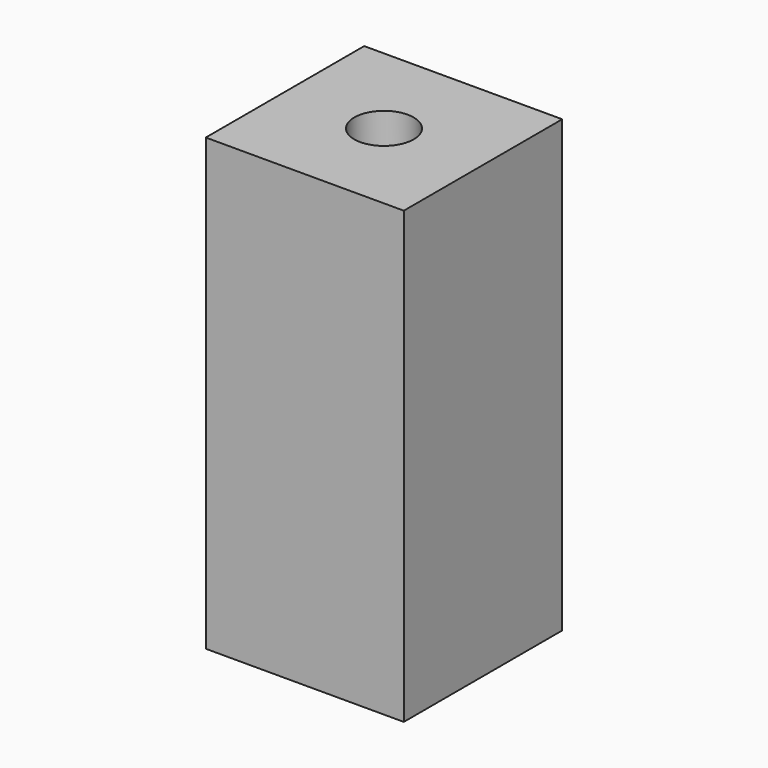
from build123d import *

# Parameters (mm, degrees)
F0_W     = 22
F0_H     = 22
F1_DEPTH = 50
F3_D     = 6.6
F3_DEPTH = 12
F3_TIP   = 1.9828400428
F5_D     = 6.6
F5_DEPTH = 12
F5_TIP   = 1.9828400428


with BuildPart() as f1:
    # F0 (on Top) → F1 (new body)
    with BuildSketch(Plane.XY):
        Rectangle(F0_W, F0_H)
    extrude(amount=F1_DEPTH)

    # F3
    with Locations(Plane.XY.offset(50)):
        with Locations((0, 0)):
            Hole(F3_D / 2, depth=F3_DEPTH)
            with Locations((0, 0, -(F3_DEPTH + F3_TIP / 2))):  # 118° drill point
                Cone(0, F3_D / 2, F3_TIP, mode=Mode.SUBTRACT)

    # F5
    with Locations(Plane(origin=(0, 0, 0), x_dir=(1, 0, 0), z_dir=(0, 0, -1))):
        with Locations((0, 0)):
            Hole(F5_D / 2, depth=F5_DEPTH)
            with Locations((0, 0, -(F5_DEPTH + F5_TIP / 2))):  # 118° drill point
                Cone(0, F5_D / 2, F5_TIP, mode=Mode.SUBTRACT)


solid = f1.part
